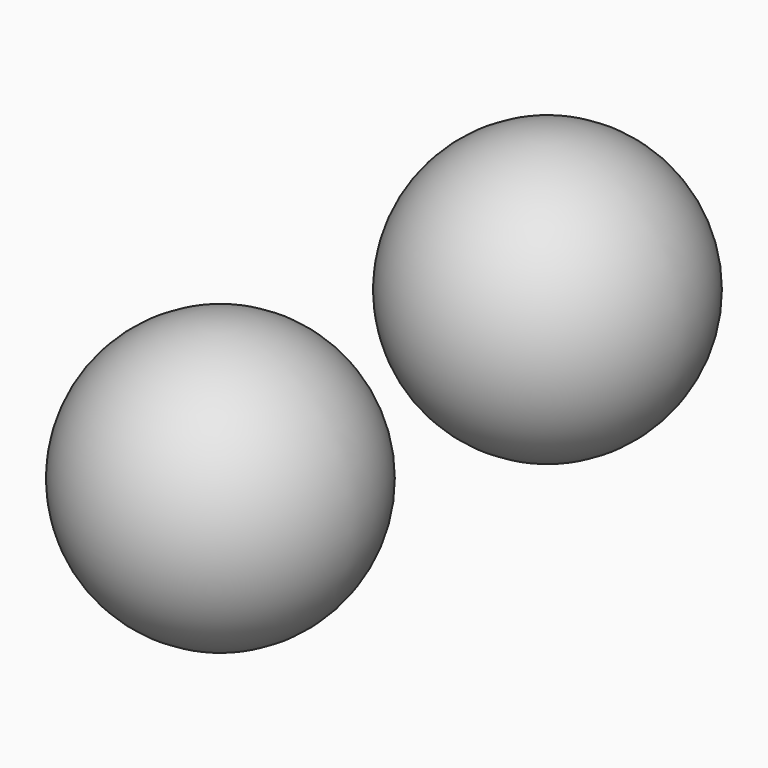
from build123d import *


with BuildPart() as sphere:
    # Sphere → Sphere (revolve)
    with BuildSketch(Plane.XZ.offset(-0.5)):
        with BuildLine():
            ThreePointArc((0, -1), (1, 0), (0, 1))
            Line((0, 1), (0, -1))
        make_face()
    revolve(axis=Axis((0, 0.5, 0), (0, 0, 1)))


with BuildPart() as sphere001:
    # Sphere001 → Sphere001 (revolve)
    with BuildSketch(Plane.XZ.offset(-3.5)):
        with BuildLine():
            ThreePointArc((0, -1), (1, 0), (0, 1))
            Line((0, 1), (0, -1))
        make_face()
    revolve(axis=Axis((0, 3.5, 0), (0, 0, 1)))


solid = Compound([sphere.part, sphere001.part])
